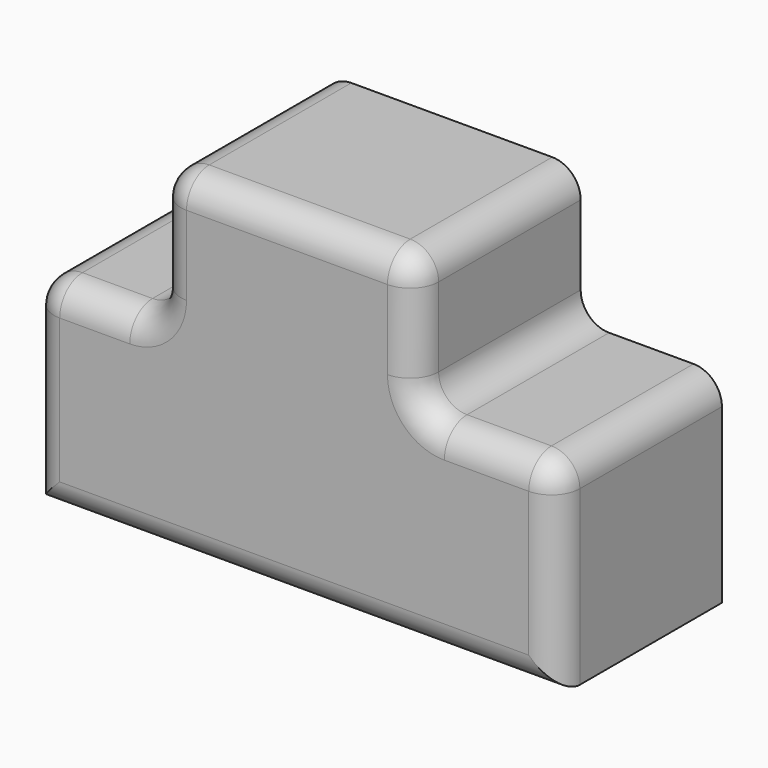
from build123d import *

# Parameters (mm, degrees)
F1_DEPTH = 36.83
F2_R     = 5.08
F3_R     = 5.08


with BuildPart() as f1:
    # F0 (on Front) → F1 (new body)
    with BuildSketch(Plane.XZ):
        Polygon((-20.186856, 15.762338), (-42.862501, 15.762338), (-42.862501, -20.186855), (51.158469, -20.186855), (51.158469, 15.762338), (25.901856, 15.762338), (25.901856, 40.097181), (-20.186856, 40.097181), align=None)
    extrude(amount=F1_DEPTH)

    # F2
    f2_edges = [f1.edges().sort_by_distance(p)[0] for p in [
        (25.901856, -18.415, 40.097181),
        (-20.186856, -18.415, 40.097181),
        (51.158469, -18.415, 15.762338),
        (25.901856, -18.415, 15.762338),
        (-20.186856, -18.415, 15.762338),
        (-42.862501, -18.415, 15.762338),
    ]]
    fillet(f2_edges, radius=F2_R)

    # F3
    f3_edges = [f1.edges().sort_by_distance(p)[0] for p in [
        (-31.524679, -36.83, 15.762338),
        (-21.674754, -36.83, 17.250236),
        (-41.374603, -36.83, 14.274441),
        (-20.186856, -36.83, 27.92976),
        (-42.862501, -36.83, -4.752258),
        (-18.698959, -36.83, 38.609283),
        (4.147984, -36.83, -20.186855),
        (2.8575, -36.83, 40.097181),
        (51.158469, -36.83, -4.752258),
        (24.413958, -36.83, 38.609283),
        (49.670572, -36.83, 14.274441),
        (25.901856, -36.83, 27.92976),
        (38.530163, -36.83, 15.762338),
        (27.389753, -36.83, 17.250236),
    ]]
    fillet(f3_edges, radius=F3_R)


solid = f1.part
